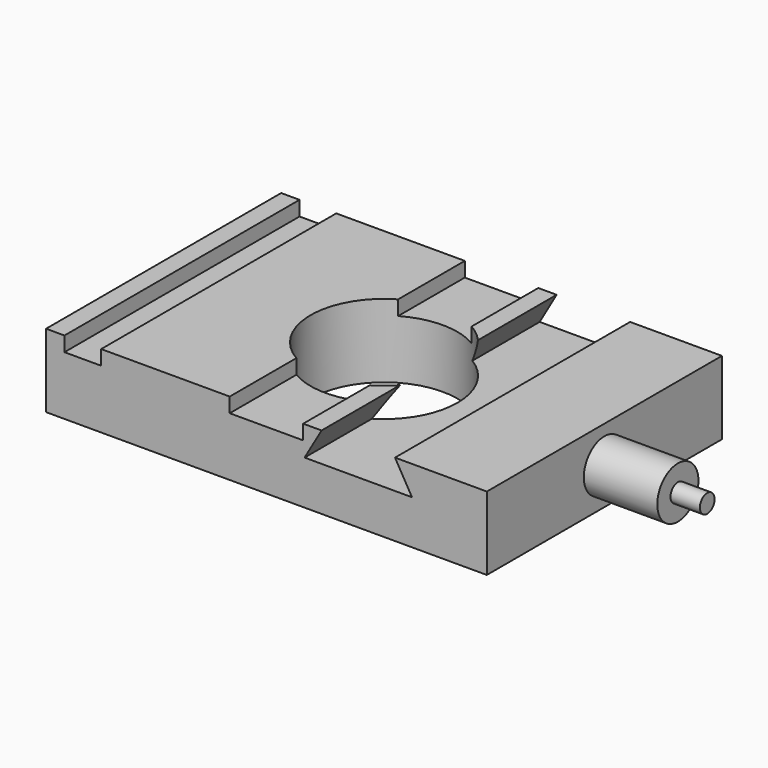
from build123d import *

# Parameters (mm, degrees)
F0_W     = 76.2
F0_H     = 50.8
F0_R     = 12.7
F1_DEPTH = 12.7
F2_W     = 6.35
F2_H     = 50.8
F3_DEPTH = 2.54
F5_DEPTH = 50.8
F6_R     = 4.445
F7_DEPTH = 12.7
F8_R     = 1.5875
F9_DEPTH = 5.08


with BuildPart() as f1:
    # F0 (on Top) → F1 (new body)
    with BuildSketch(Plane.XY):
        Rectangle(F0_W, F0_H)
        Circle(F0_R, mode=Mode.SUBTRACT)
    extrude(amount=F1_DEPTH)

    # F2 (on face) → F3 (cut)
    with BuildSketch(Plane.XY.offset(12.7)):
        with Locations((-31.75, 0)):
            Rectangle(F2_W, F2_H)
        with BuildLine():
            Line((-6.35, -10.9985226281), (-6.35, -25.4))
            Line((-6.35, -25.4), (6.35, -25.4))
            Line((6.35, -25.4), (6.35, -10.9985226281))
            ThreePointArc((6.35, -10.9985226281), (0, -12.7), (-6.35, -10.9985226281))
        make_face()
        with BuildLine():
            Line((6.35, 25.4), (-6.35, 25.4))
            Line((-6.35, 25.4), (-6.35, 10.9985226281))
            ThreePointArc((-6.35, 10.9985226281), (0, 12.7), (6.35, 10.9985226281))
            Line((6.35, 10.9985226281), (6.35, 25.4))
        make_face()
    extrude(amount=-F3_DEPTH, mode=Mode.SUBTRACT)

    # F4 (on face) → F5 (cut, through all)
    with BuildSketch(Plane.XZ.offset(25.4)):
        Polygon((22.225, 12.7), (9.525, 12.7), (6.5920606325, 7.62), (25.1579393675, 7.62), align=None)
    extrude(amount=-F5_DEPTH, mode=Mode.SUBTRACT)

    # F6 (on face) → F7 (join)
    with BuildSketch(Plane.YZ.offset(38.1)):
        with Locations((0, 6.35)):
            Circle(F6_R)
    extrude(amount=F7_DEPTH)

    # F8 (on face) → F9 (join)
    with BuildSketch(Plane.YZ.offset(50.8)):
        with Locations((0, 6.35)):
            Circle(F8_R)
    extrude(amount=F9_DEPTH)


solid = f1.part
